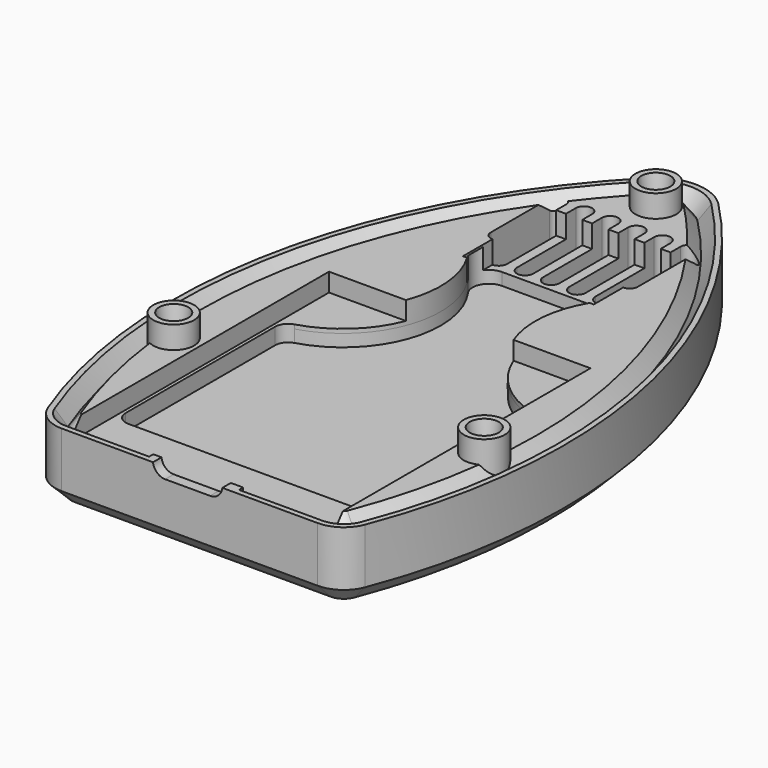
from build123d import *

# Parameters (mm, degrees)
PAD011_DEPTH           = 6.5
CHAMFER_SIZE           = 2
SKETCH020_W            = 32
SKETCH020_H            = 40
POCKET004_DEPTH        = 4.5
SKETCH021_W            = 16
SKETCH021_H            = 13
POCKET005_DEPTH        = 3
POCKET006_DEPTH        = 2
PAD012_DEPTH           = 2.5
POCKET007_DEPTH        = 5
POCKET008_DEPTH        = 6.501
LINEARPATTERN001_COUNT = 6
LINEARPATTERN001_PITCH = 2.8
POCKET009_DEPTH        = 6.501
POCKET009_DEPTH_BACK   = 6.501
LINEARPATTERN002_COUNT = 6
LINEARPATTERN002_PITCH = 3.2
SKETCH043_W            = 50
SKETCH043_H            = 9.25
PAD015_DEPTH           = 80
POCKET010_DEPTH        = 2.751
SKETCH044_R            = 2.5
PAD016_DEPTH           = 5


with BuildPart() as housing:
    # Sketch019 → Pad011 (new body, symmetric)
    with BuildSketch(Plane.XY):
        with BuildLine():
            ThreePointArc((4.279646, 74.20531), (0, 76), (-4.279646, 74.20531))
            ThreePointArc((-4.279646, 74.20531), (-22.568944, 39.95714), (-19.396798, 1.261235))
            ThreePointArc((-19.396798, 1.261235), (-17.9278, -0.59811), (-15.664513, -1.3))
            Line((15.664513, -1.3), (-15.664513, -1.3))
            ThreePointArc((15.664513, -1.3), (17.927792, -0.598116), (19.396791, 1.261217))
            ThreePointArc((19.396791, 1.261217), (22.568946, 39.95713), (4.279646, 74.20531))
        make_face()
    extrude(amount=PAD011_DEPTH, both=True)

    # Chamfer
    chamfer_edges = [housing.edges().sort_by_distance(p)[0] for p in [
        (0, -1.3, 6.5),
        (0, -1.3, -6.5),
    ]]
    chamfer(chamfer_edges, length=CHAMFER_SIZE)

    # Sketch020 → Pocket004 (cut)
    with BuildSketch(Plane.XY):
        with Locations((0, 20)):
            Rectangle(SKETCH020_W, SKETCH020_H)
    extrude(amount=POCKET004_DEPTH, mode=Mode.SUBTRACT)

    # Sketch021 → Pocket005 (cut)
    with BuildSketch(Plane.XY):
        with Locations((0, 57)):
            Rectangle(SKETCH021_W, SKETCH021_H)
    extrude(amount=POCKET005_DEPTH, mode=Mode.SUBTRACT)

    # Sketch022 → Pocket006 (cut, symmetric)
    with BuildSketch(Plane.XY):
        with BuildLine():
            ThreePointArc((-6.35, 54.4), (-8.125922, 53.319838), (-7.98356, 51.246101))
            ThreePointArc((-14.445285, 32.796789), (-6.459474, 40.356063), (-7.98356, 51.246101))
            ThreePointArc((-14.445285, 32.796789), (-15.279151, 32.221131), (-15.6, 31.26))
            Line((-15.6, 8.4), (-15.6, 31.26))
            ThreePointArc((-15.6, 8.4), (-15.131371, 7.268629), (-14, 6.8))
            Line((14, 6.8), (-14, 6.8))
            ThreePointArc((14, 6.8), (15.131371, 7.268629), (15.6, 8.4))
            Line((15.6, 31.26), (15.6, 8.4))
            ThreePointArc((15.6, 31.26), (15.279151, 32.221131), (14.445285, 32.796789))
            ThreePointArc((7.98356, 51.246101), (6.459474, 40.356063), (14.445285, 32.796789))
            ThreePointArc((7.98356, 51.246101), (8.125922, 53.319838), (6.35, 54.4))
            Line((6.35, 54.4), (-6.35, 54.4))
        make_face()
    extrude(amount=POCKET006_DEPTH, both=True, mode=Mode.SUBTRACT)

    # Sketch039 → Pad012 (join)
    with BuildSketch(Plane.XY.offset(-0.5)):
        with BuildLine():
            ThreePointArc((-4.584919, 45.32271), (-5.584919, 44.32271), (-4.584919, 43.32271))
            Line((-4.584919, 43.32271), (4.584919, 43.32271))
            ThreePointArc((4.584919, 43.32271), (5.584919, 44.32271), (4.584919, 45.32271))
            Line((4.584919, 45.32271), (-4.584919, 45.32271))
        make_face()
    extrude(amount=PAD012_DEPTH)

    # Sketch023 → Pocket007 (cut, symmetric)
    with BuildSketch(Plane.XZ):
        with BuildLine():
            ThreePointArc((-3, 3.9), (-4.5, 2.4), (-3, 0.9))
            Line((-3, 0.9), (2.5, 0.9))
            ThreePointArc((2.5, 0.9), (4, 2.4), (2.5, 3.9))
            Line((2.5, 3.9), (-3, 3.9))
        make_face()
    extrude(amount=POCKET007_DEPTH, both=True, mode=Mode.SUBTRACT)

    # Sketch025 → Pocket008 (cut, through all)
    with BuildSketch(Plane.XY):
        with BuildLine():
            ThreePointArc((-6.25, 32.5), (-7, 33.25), (-7.75, 32.5))
            Line((-7.75, 32.5), (-7.75, 13.5))
            ThreePointArc((-7.75, 13.5), (-7, 12.75), (-6.25, 13.5))
            Line((-6.25, 13.5), (-6.25, 32.5))
        make_face()
    pocket008 = extrude(amount=POCKET008_DEPTH, mode=Mode.SUBTRACT)

    # LinearPattern001: Pocket008 ×6
    with Locations(*[(i * LINEARPATTERN001_PITCH, 0, 0) for i in range(1, LINEARPATTERN001_COUNT)]):
        add(pocket008, mode=Mode.SUBTRACT)

    # Sketch026 → Pocket009 (cut, two sides)
    with BuildSketch(Plane.XY) as pocket009_sk:
        with BuildLine():
            ThreePointArc((-7, 65), (-8, 66), (-9, 65))
            Line((-9, 65), (-9, 56))
            ThreePointArc((-9, 56), (-8, 55), (-7, 56))
            Line((-7, 56), (-7, 65))
        make_face()
    pocket009 = extrude(amount=-POCKET009_DEPTH, mode=Mode.SUBTRACT) + extrude(pocket009_sk.sketch, amount=POCKET009_DEPTH_BACK, mode=Mode.SUBTRACT)

    # LinearPattern002: Pocket009 ×6
    with Locations(*[(i * LINEARPATTERN002_PITCH, 0, 0) for i in range(1, LINEARPATTERN002_COUNT)]):
        add(pocket009, mode=Mode.SUBTRACT)

    # Sketch027 → Groove (revolve, cut)
    with BuildSketch(Plane.XZ.offset(-20)):
        Polygon((19, 6.7), (19, -5.8), (19.4, -5.8), (20.8, 5.2), (22.3, 6.7), align=None)
    groove = revolve(axis=Axis((19, 20, 6.7), (0, 0, 1)), mode=Mode.SUBTRACT)

    # Mirrored: Groove across YZ
    add(groove.mirror(Plane.YZ), mode=Mode.SUBTRACT)

    # Sketch028 → Groove001 (revolve, cut)
    with BuildSketch(Plane.XZ.offset(-70)):
        Polygon((0, 6.7), (0, -5.8), (0.4, -5.8), (1.8, 5.2), (3.3, 6.7), align=None)
    revolve(axis=Axis((0, 70, 6.7), (0, 0, 1)), mode=Mode.SUBTRACT)


with BuildPart() as bottom_housing:
    # Sketch043 → Pad015 (new body)
    with BuildSketch(Plane.XZ.offset(2)):
        with Locations((0, -2.375)):
            Rectangle(SKETCH043_W, SKETCH043_H)
    extrude(amount=-PAD015_DEPTH)

    # SubtractivePipe: sweep along a path in Sketch036
    with BuildLine(Plane.XY) as subtractivepipe_path:
        Line((5.5, 0.7), (15.664513, 0.7))
        ThreePointArc((15.664513, 0.7), (16.796157, 1.050945), (17.530656, 1.980617))
        ThreePointArc((17.530656, 1.980617), (20.610558, 39.551278), (2.853097, 72.80354))
        ThreePointArc((2.853097, 72.80354), (0, 74), (-2.853097, 72.80354))
        ThreePointArc((-2.853097, 72.80354), (-20.610558, 39.551278), (-17.530656, 1.980617))
        ThreePointArc((-17.530656, 1.980617), (-16.796157, 1.050945), (-15.664513, 0.7))
        Line((-15.664513, 0.7), (-5.5, 0.7))
    # Sketch037 → SubtractivePipe (sweep, cut)
    with BuildSketch(Plane.YZ):
        Polygon((72.089299, 3), (74, 0.509926), (75.910701, 3), align=None)
    sweep(path=subtractivepipe_path.line, mode=Mode.SUBTRACT)

    # Sketch038 → Pocket010 (cut, through all)
    with BuildSketch(Plane.XY.offset(-0.5)):
        with BuildLine():
            ThreePointArc((7.49701, 50.5), (6.614494, 39.938466), (14.445285, 32.796789))
            Line((14.445285, 32.796789), (-14.445285, 32.796789))
            ThreePointArc((-14.445285, 32.796789), (-6.614494, 39.938466), (-7.49701, 50.5))
            Line((-8, 50.5), (-7.49701, 50.5))
            Line((-8, 63.5), (-8, 50.5))
            Line((8, 63.5), (-8, 63.5))
            Line((8, 50.5), (8, 63.5))
            Line((7.49701, 50.5), (8, 50.5))
        make_face()
    extrude(amount=POCKET010_DEPTH, mode=Mode.SUBTRACT)

    # Sketch044 → Pad016 (join)
    with BuildSketch(Plane.XY):
        with Locations((0, 70)):
            Circle(SKETCH044_R)
        with Locations((-19, 20)):
            Circle(SKETCH044_R)
        with Locations((19, 20)):
            Circle(SKETCH044_R)
    extrude(amount=PAD016_DEPTH)

    # Common001: intersect Housing
    add(housing.part, mode=Mode.INTERSECT)


solid = bottom_housing.part
